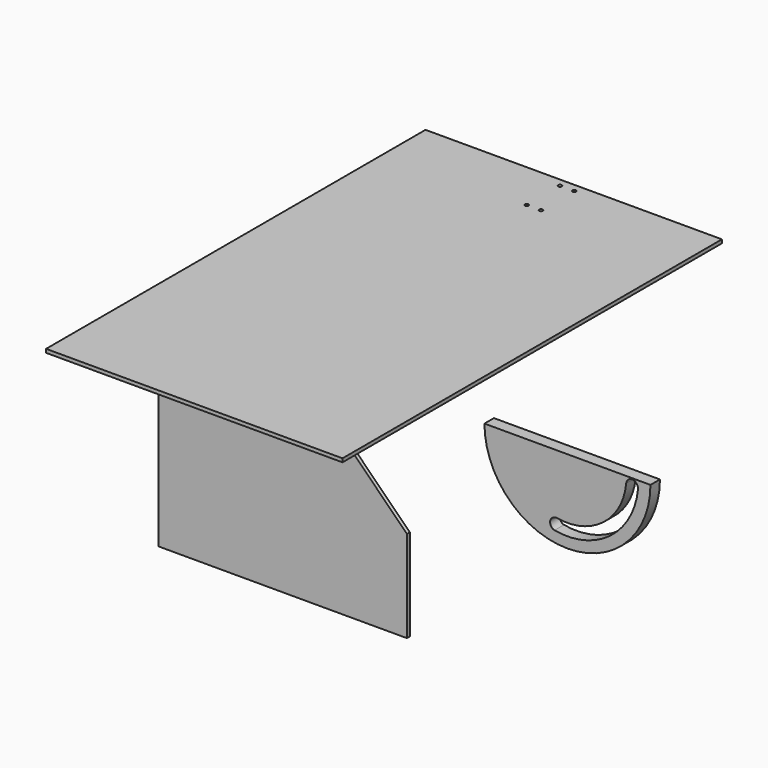
from build123d import *

# Parameters (mm, degrees)
F0_W     = 250
F0_H     = 400
F0_R     = 1.55
F1_DEPTH = 3
F3_DEPTH = 3
F5_DEPTH = 10


with BuildPart() as f1:
    # F0 (on Top) → F1 (new body)
    with BuildSketch(Plane.XY):
        with Locations((36.335228, 88.406332)):
            Rectangle(F0_W, F0_H)
        with Locations((30.335228, 246.406332)):
            Circle(F0_R, mode=Mode.SUBTRACT)
        with Locations((30.335228, 281.406332)):
            Circle(F0_R, mode=Mode.SUBTRACT)
        with Locations((42.335228, 246.406332)):
            Circle(F0_R, mode=Mode.SUBTRACT)
        with Locations((42.335228, 281.406332)):
            Circle(F0_R, mode=Mode.SUBTRACT)
    extrude(amount=F1_DEPTH)


with BuildPart() as f3:
    # F2 (on Front) → F3 (new body)
    with BuildSketch(Plane.XZ):
        Polygon((44.196748, -23.264695), (-80.803252, -23.264695), (-80.803252, -185.264695), (128.827692, -185.264695), (128.827692, -107.895639), align=None)
    extrude(amount=F3_DEPTH)


with BuildPart() as f5:
    # F4 (on Front) → F5 (new body)
    with BuildSketch(Plane.XZ):
        with BuildLine():
            Line((229.529343, 0), (199.780078, 0))
            ThreePointArc((199.780078, 0), (269.780078, -70), (339.780078, 0))
            Line((339.780078, 0), (309.529343, 0))
            Line((309.529343, 0), (229.529343, 0))
        make_face()
        with BuildLine():
            ThreePointArc((258.867424, -60.045097), (255.316202, -53.894199), (261.467099, -50.342977))
            ThreePointArc((261.467099, -50.342977), (300.140983, -40.531365), (319.322303, -5.545455))
            ThreePointArc((319.322303, -5.545455), (324.756144, -1.020704), (329.280895, -6.454545))
            ThreePointArc((329.280895, -6.454545), (305.867131, -48.744792), (258.867424, -60.045097))
        make_face(mode=Mode.SUBTRACT)
    extrude(amount=F5_DEPTH)


solid = Compound([f1.part, f3.part, f5.part])
